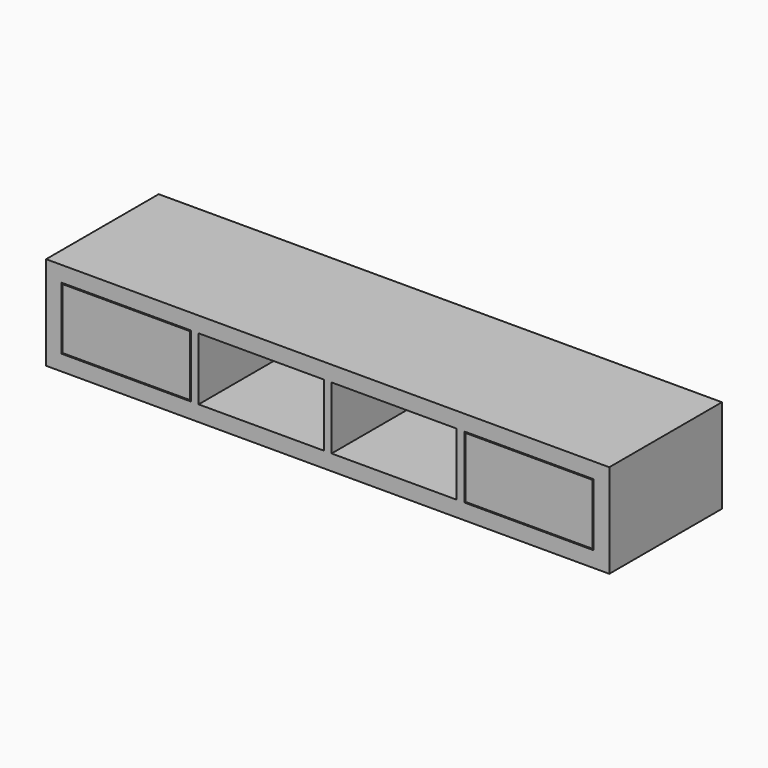
from build123d import *

# Parameters (mm, degrees)
F0_W     = 1828.8
F0_H     = 304.8
F0_W_2   = 25.4
F0_H_2   = 203.2
F1_DEPTH = 457.2
F2_W     = 412.75
F2_H     = 196.85
F3_DEPTH = 12.7
F4_DEPTH = 12.7


with BuildPart() as f1:
    # F0 (on Front) → F1 (new body)
    with BuildSketch(Plane.XZ):
        Rectangle(F0_W, F0_H)
        Polygon((-444.5, -101.6), (-863.6, -101.6), (-863.6, 101.6), (-444.5, 101.6), (-419.1, 101.6), (-12.7, 101.6), (12.7, 101.6), (419.1, 101.6), (444.5, 101.6), (863.6, 101.6), (863.6, -101.6), (444.5, -101.6), (419.1, -101.6), (12.7, -101.6), (-12.7, -101.6), (-419.1, -101.6), align=None, mode=Mode.SUBTRACT)
        with Locations((-431.8, 0)):
            Rectangle(F0_W_2, F0_H_2)
        Rectangle(F0_W_2, F0_H_2)
        with Locations((431.8, 0)):
            Rectangle(F0_W_2, F0_H_2)
    extrude(amount=F1_DEPTH)


with BuildPart() as f3:
    # F2 (on face) → F3 (new body)
    with BuildSketch(Plane.XZ.offset(457.2)):
        with Locations((-654.05, 0)):
            Rectangle(F2_W, F2_H)
    extrude(amount=-F3_DEPTH)

    # F2 (on face) → F4 (join)
    with BuildSketch(Plane.XZ.offset(457.2)):
        with Locations((-654.05, 0)):
            Rectangle(F2_W, F2_H)
        with Locations((654.05, 0)):
            Rectangle(F2_W, F2_H)
    extrude(amount=-F4_DEPTH)


solid = Compound([f1.part, f3.part])
